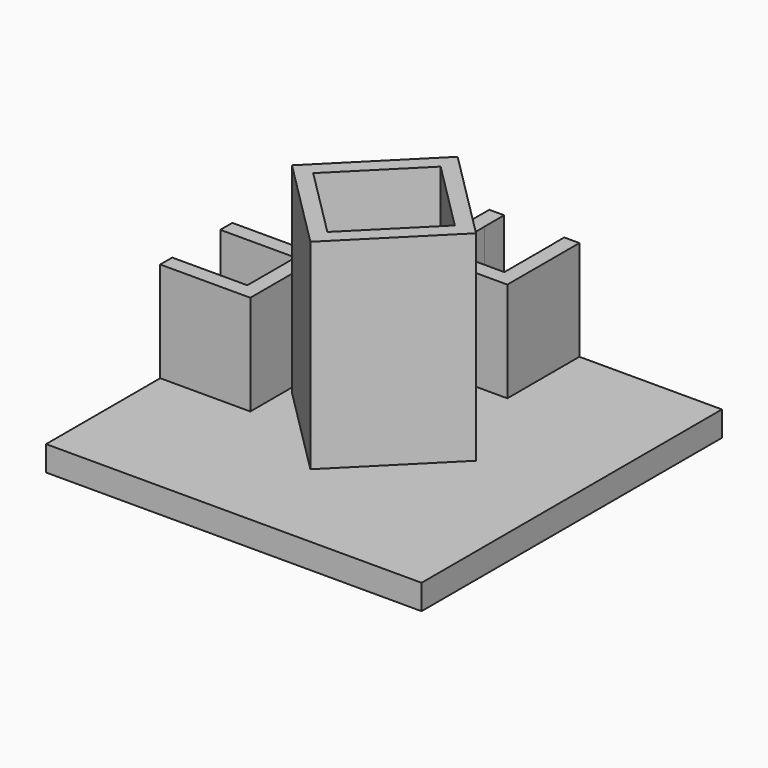
from build123d import *

# Parameters (mm, degrees)
F0_W      = 75
F0_H      = 75
F1_DEPTH  = 5
F3_DEPTH  = 40
F4_W      = 18
F4_H      = 17.9855290949
F4_W_2    = 12
F4_H_2    = 12
F4_H_3    = 18
F5_DEPTH  = 5
F6_DEPTH  = 15
F7_W      = 12
F7_H      = 15
F8_DEPTH  = 5
F9_W      = 12
F9_H      = 15
F10_DEPTH = 5


with BuildPart() as f1:
    # F0 (on Top) → F1 (new body)
    with BuildSketch(Plane.XY):
        Rectangle(F0_W, F0_H)
    extrude(amount=F1_DEPTH)

    # F2 (on face) → F3 (join)
    with BuildSketch(Plane.XY.offset(5)):
        Polygon((18.3847763109, 0), (0, 18.3847763109), (-18.3847763109, 0), (0, -18.3847763109), align=None)
        Polygon((-14.1421356237, 0), (0, 14.1421356237), (14.1421356237, 0), (0, -14.1421356237), align=None, mode=Mode.SUBTRACT)
    extrude(amount=F3_DEPTH)

    # F4 (on face) → F5 (join)
    with BuildSketch(Plane.XY.offset(5)):
        with Locations((0.0273990361, 28.5072354525)):
            Rectangle(F4_W, F4_H)
        with Locations((0.0273990361, 28.5144709051)):
            Rectangle(F4_W_2, F4_H_2, mode=Mode.SUBTRACT)
        with Locations((-28.5, 0)):
            Rectangle(F4_W, F4_H_3)
        with Locations((-28.5, 0)):
            Rectangle(F4_W_2, F4_H_2, mode=Mode.SUBTRACT)
    extrude(amount=F5_DEPTH)

    # F6 (add): faces of the model
    f6_faces = [f1.faces().sort_by_distance(p)[0] for p in [
        (8.772942899, 28.5072354525, 10),
        (-28.5, 8.7454415588, 10),
        (-28.5, 8.7454415588, 10),
    ]]
    extrude(f6_faces, amount=F6_DEPTH)

    # F7 (on face) → F8 (cut)
    with BuildSketch(Plane(origin=(-37.5, 0, 0), x_dir=(0, -1, 0), z_dir=(-1, 0, 0))):
        with Locations((0, 17.5)):
            Rectangle(F7_W, F7_H)
    extrude(amount=-F8_DEPTH, mode=Mode.SUBTRACT)

    # F9 (on face) → F10 (cut)
    with BuildSketch(Plane(origin=(0, 37.5, 0), x_dir=(-1, 0, 0), z_dir=(0, 1, 0))):
        with Locations((0, 17.5)):
            Rectangle(F9_W, F9_H)
    extrude(amount=-F10_DEPTH, mode=Mode.SUBTRACT)


solid = f1.part
